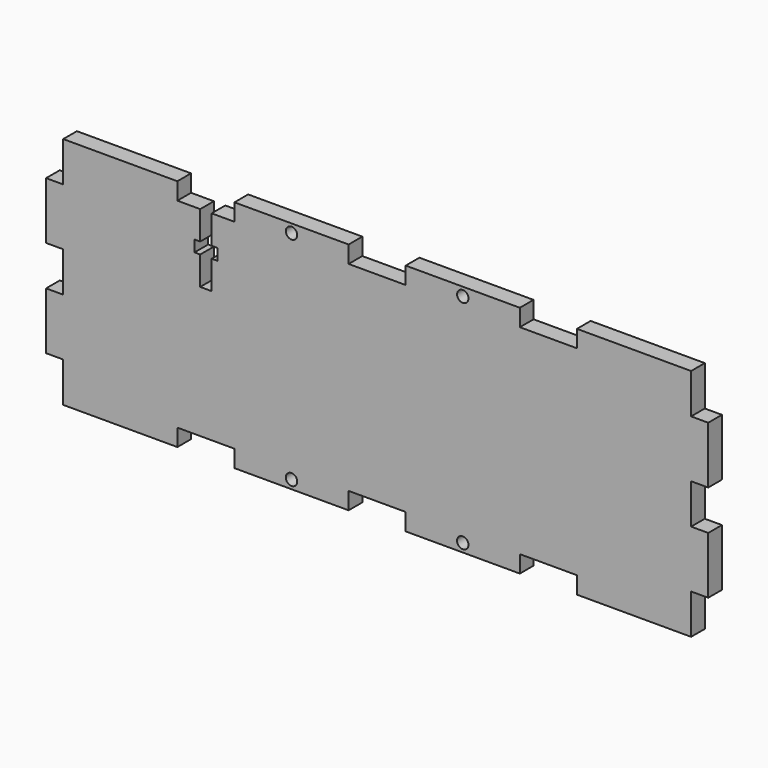
from build123d import *

# Parameters (mm, degrees)
F0_R     = 1
F1_DEPTH = 1.5


with BuildPart() as f1:
    # F0 (on Front) → F1 (new body, symmetric)
    with BuildSketch(Plane.XZ):
        Polygon((-20, 0), (0, 0), (0, 7), (3, 7), (3, 17), (0, 17), (0, 24), (3, 24), (3, 34), (0, 34), (0, 41), (-20, 41), (-20, 38), (-30, 38), (-30, 41), (-50, 41), (-50, 38), (-60, 38), (-60, 41), (-80, 41), (-80, 38), (-84, 38), (-84, 33), (-83, 33), (-83, 31), (-84, 31), (-84, 26), (-86, 26), (-86, 31), (-87, 31), (-87, 33), (-86, 33), (-86, 38), (-90, 38), (-90, 41), (-110, 41), (-110, 34), (-113, 34), (-113, 24), (-110, 24), (-110, 17), (-113, 17), (-113, 7), (-110, 7), (-110, 0), (-90, 0), (-90, 3), (-80, 3), (-80, 0), (-60, 0), (-60, 3), (-50, 3), (-50, 0), (-30, 0), (-30, 3), (-20, 3), align=None)
        with Locations((-70, 1.5)):
            Circle(F0_R, mode=Mode.SUBTRACT)
        with Locations((-40, 1.5)):
            Circle(F0_R, mode=Mode.SUBTRACT)
        with Locations((-70, 39.5)):
            Circle(F0_R, mode=Mode.SUBTRACT)
        with Locations((-40, 39.5)):
            Circle(F0_R, mode=Mode.SUBTRACT)
    extrude(amount=F1_DEPTH, both=True)


solid = f1.part
